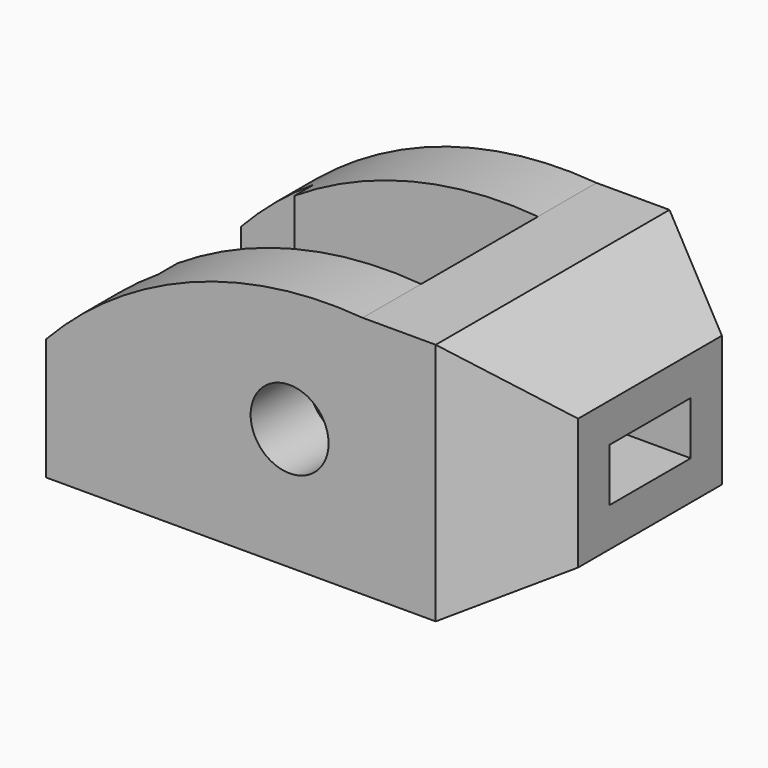
from build123d import *

# Parameters (mm, degrees)
F0_R     = 8
F1_DEPTH = 60
F3_DEPTH = 50.277435
F5_DEPTH = 60.001
F6_W     = 20.90599
F6_H     = 10.90599
F7_DEPTH = 100.001


with BuildPart() as f1:
    # F0 (on Front) → F1 (new body)
    with BuildSketch(Plane.XZ):
        with BuildLine():
            Line((-100, 0), (0, 0))
            Line((0, 0), (0, 50))
            Line((0, 50), (-35, 50))
            ThreePointArc((-35, 50), (-70.363109, 44.944083), (-100, 25))
            Line((-100, 25), (-100, 0))
        make_face()
        with Locations((-50, 25)):
            Circle(F0_R, mode=Mode.SUBTRACT)
    extrude(amount=F1_DEPTH)

    # F2 (on Top) → F3 (cut, through all)
    with BuildSketch(Plane.XY):
        Polygon((0, 0), (-20, 0), (0, -11.547005), align=None)
        Polygon((0, -48.452995), (-20, -60), (0, -60), align=None)
        Polygon((-85, -10), (-100, -10), (-100, -50), (-85, -50), (-85, -45), (-35, -45), (-35, -15), (-85, -15), align=None)
    extrude(amount=F3_DEPTH, mode=Mode.SUBTRACT)

    # F4 (on face) → F5 (cut, through all)
    with BuildSketch(Plane.XZ.offset(60)):
        Polygon((0, 50), (-20, 50), (0, 38.452995), align=None)
        Polygon((-20, 0), (0, 0), (0, 11.547005), align=None)
    extrude(amount=-F5_DEPTH, mode=Mode.SUBTRACT)

    # F6 (on face) → F7 (cut, through all)
    with BuildSketch(Plane.YZ):
        with Locations((-30, 25)):
            Rectangle(F6_W, F6_H)
    extrude(amount=-F7_DEPTH, mode=Mode.SUBTRACT)


solid = f1.part
